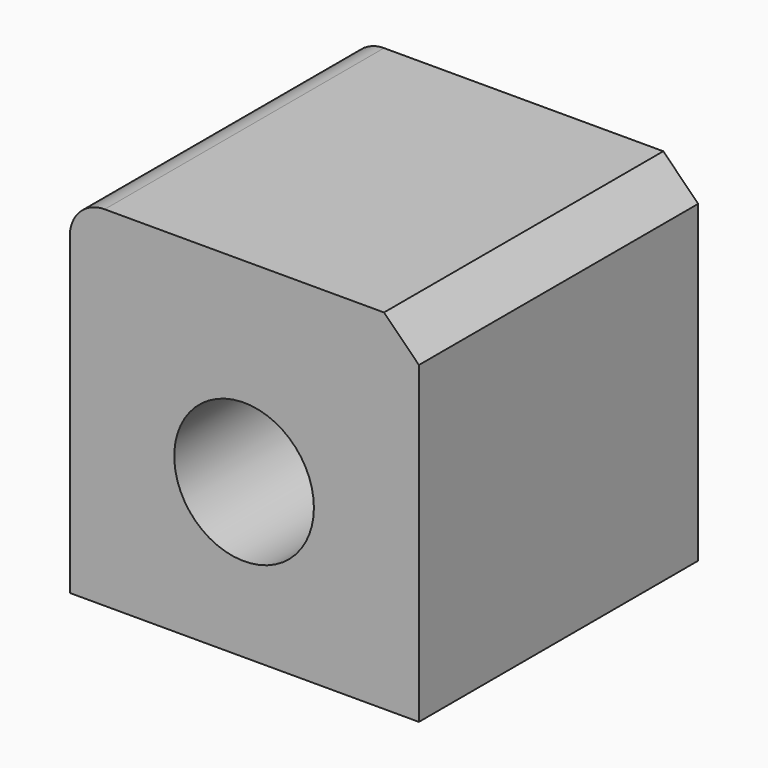
from build123d import *

# Parameters (mm, degrees)
F0_W     = 127
F0_H     = 127
F1_DEPTH = 127
F2_R     = 12.7
F3_SIZE  = 12.7
F5_R     = 25.4
F6_DEPTH = 127.001


with BuildPart() as f1:
    # F0 (on Front) → F1 (new body)
    with BuildSketch(Plane.XZ):
        with Locations((0.102586, 63.5)):
            Rectangle(F0_W, F0_H)
    extrude(amount=F1_DEPTH)

    # F2
    f2_edges = [f1.edges().sort_by_distance(p)[0] for p in [
        (-63.397414, -63.5, 127),
    ]]
    fillet(f2_edges, radius=F2_R)

    # F3
    f3_edges = [f1.edges().sort_by_distance(p)[0] for p in [
        (63.602586, -63.5, 127),
    ]]
    chamfer(f3_edges, length=F3_SIZE)

    # F5 (on face) → F6 (cut, through all)
    with BuildSketch(Plane.XZ.offset(127)):
        with Locations((0, 56.165393)):
            Circle(F5_R)
    extrude(amount=-F6_DEPTH, mode=Mode.SUBTRACT)


solid = f1.part
